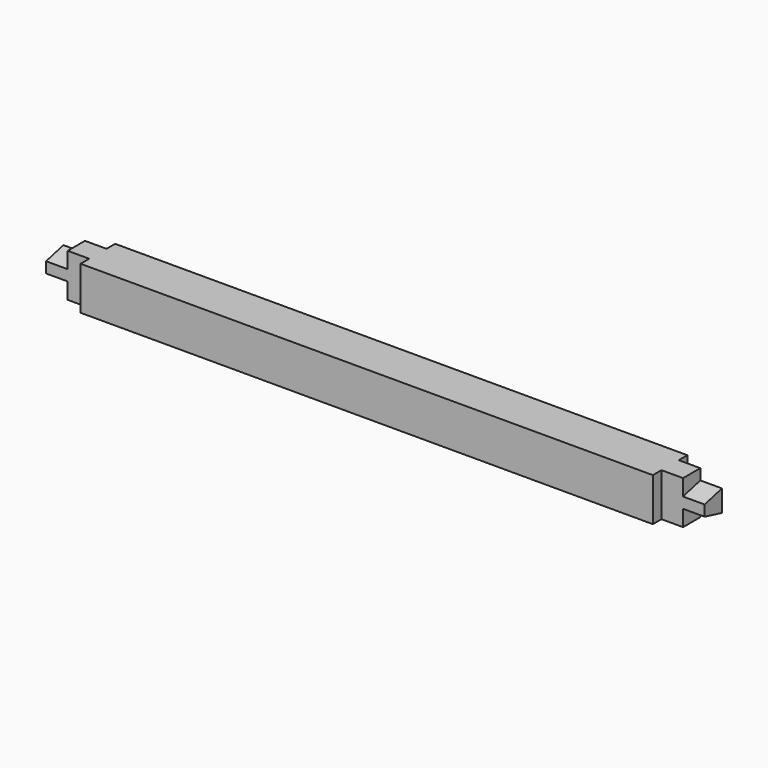
from build123d import *

# Parameters (mm, degrees)
F0_W     = 40
F0_H     = 40
F1_DEPTH = 265
F2_W     = 20
F2_H     = 40
F3_DEPTH = 40
F5_DEPTH = 20


with BuildPart() as f1:
    # F0 (on Right) → F1 (new body)
    with BuildSketch(Plane.YZ):
        with Locations((-3.228404, 8.187629)):
            Rectangle(F0_W, F0_H)
    extrude(amount=F1_DEPTH)

    # F2 (on face) → F3 (join)
    with BuildSketch(Plane.YZ.offset(265)):
        with Locations((-3.228404, 8.187629)):
            Rectangle(F2_W, F2_H)
    extrude(amount=F3_DEPTH)

    # F4 (on face) → F5 (cut)
    with BuildSketch(Plane.YZ.offset(305)):
        Polygon((6.771596, -1.812371), (-13.228404, 3.187629), (-13.228404, -11.812371), (6.771596, -11.812371), align=None)
        Polygon((-13.228404, 28.187629), (-13.228404, 13.187629), (6.771596, 18.187629), (6.771596, 28.187629), align=None)
    extrude(amount=-F5_DEPTH, mode=Mode.SUBTRACT)

    # F6: F1 across face


with BuildPart() as f1_1:
    add(f1.part)
    add(f1.part.mirror(Plane(origin=(0, -3.228404, 8.187629), x_dir=(0, 1, 0), z_dir=(-1, 0, 0))))


solid = f1_1.part
